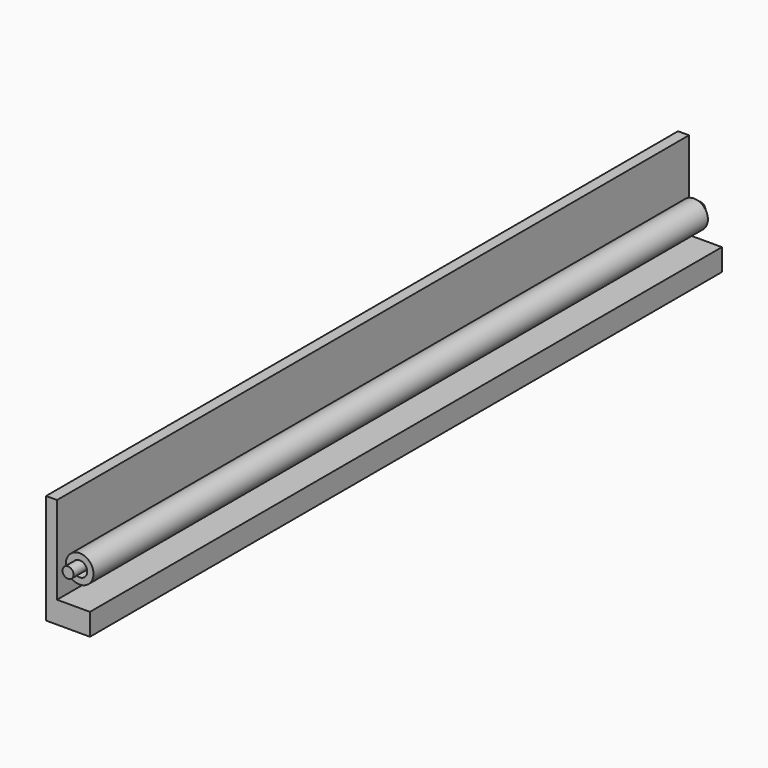
from build123d import *

# Parameters (mm, degrees)
F0_R     = 12.7
F1_DEPTH = 914.4
F2_R     = 32
F2_R_2   = 17.5
F3_DEPTH = 889


with BuildPart() as f1:
    # F0 (on Front) → F1 (new body, symmetric)
    with BuildSketch(Plane.XZ):
        Polygon((76.2, 0), (0, 0), (0, 203.2), (-25.4, 203.2), (-25.4, -50.8), (76.2, -50.8), align=None)
        with Locations((25.4, 63.5)):
            Circle(F0_R)
    extrude(amount=F1_DEPTH, both=True)


with BuildPart() as f3:
    # F2 (on Front) → F3 (new body, symmetric)
    with BuildSketch(Plane.XZ):
        with Locations((32, 63.038245)):
            Circle(F2_R)
        with Locations((32, 63.038245)):
            Circle(F2_R_2, mode=Mode.SUBTRACT)
    extrude(amount=F3_DEPTH, both=True)


solid = Compound([f1.part, f3.part])
